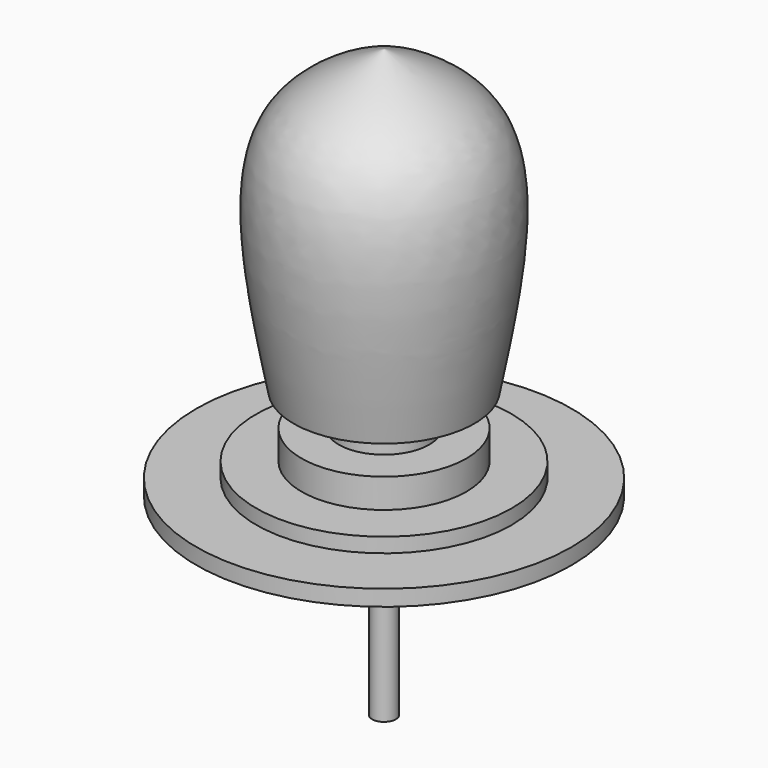
from build123d import *

# Parameters (mm, degrees)
F0_R     = 2.4977360004
F1_DEPTH = 60


with BuildPart() as f1:
    # F0 (on Top) → F1 (new body, symmetric)
    with BuildSketch(Plane.XY):
        Circle(F0_R)
    extrude(amount=F1_DEPTH, both=True)

    # F2 (on Front) → F3 (revolve)
    with BuildSketch(Plane.XZ):
        with BuildLine():
            Line((0, 0), (0, 63.1117001176))
            add(Edge.make_bspline(
                [(0, 63.1117001176), (-8.564592389, 59.3954542786), (-28.7472157674, 50.6380509202), (-22.5542900222, 18.5000735529), (-18.9893618226, 0)],
                knots=[0, 0, 0, 0, 0.4243547644, 1, 1, 1, 1], degree=3))
            Line((-18.9893618226, 0), (0, 0))
        make_face()
    revolve(axis=Axis((0, 0, 31.5558500588), (0, 0, 1)))

    # F4 (on Front) → F5 (revolve)
    with BuildSketch(Plane.XZ):
        Polygon((9.49467998, 0), (0, 0), (0, -19.547874108), (39.3750034273, -19.547874108), (39.3750034273, -16.1968097091), (26.8085133284, -16.1968097091), (26.8085133284, -13.1250005215), (17.3138324171, -13.1250005215), (17.3138324171, -6.9813835435), (9.49467998, -6.9813835435), align=None)
    revolve(axis=Axis((0, 0, -9.773937054), (0, 0, 1)))


solid = f1.part
